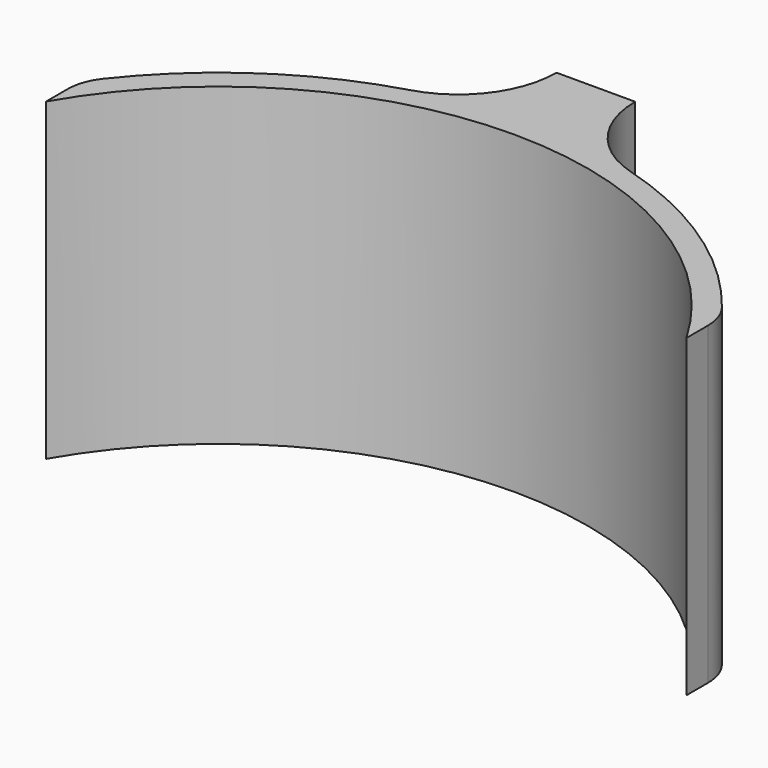
from build123d import *

# Parameters (mm, degrees)
F1_DEPTH = 40


with BuildPart() as f1:
    # F0 (on Top) → F1 (new body)
    with BuildSketch(Plane.XY):
        with BuildLine():
            ThreePointArc((-5, 49.749372), (0, 50), (5, 49.749372))
            Line((5, 49.749372), (5, 60))
            Line((5, 60), (-5, 60))
            Line((-5, 60), (-5, 49.749372))
        make_face()
        with BuildLine():
            ThreePointArc((-14, 48), (-9.540182, 49.081411), (-5, 49.749372))
            Line((-5, 49.749372), (-5, 60))
            ThreePointArc((-5, 60), (-7.5, 52.5), (-14, 48))
        make_face()
        with BuildLine():
            ThreePointArc((5, 49.749372), (9.540182, 49.081411), (14, 48))
            ThreePointArc((14, 48), (7.5, 52.5), (5, 60))
            Line((5, 60), (5, 49.749372))
        make_face()
        with BuildLine():
            ThreePointArc((40.703194, 26.929177), (40.355564, 29.001385), (39.350738, 30.846709))
            ThreePointArc((39.350738, 30.846709), (28.020245, 41.410939), (14, 48))
            ThreePointArc((14, 48), (9.540182, 49.081411), (5, 49.749372))
            Line((5, 49.749372), (-5, 49.749372))
            ThreePointArc((-5, 49.749372), (-9.540182, 49.081411), (-14, 48))
            ThreePointArc((-14, 48), (-28.020245, 41.410939), (-39.350738, 30.846709))
            ThreePointArc((-39.350738, 30.846709), (-40.355564, 29.001385), (-40.703194, 26.929177))
            Line((-40.703194, 26.929177), (-40.703194, 23.5))
            ThreePointArc((-40.703194, 23.5), (0, 47), (40.703194, 23.5))
            Line((40.703194, 23.5), (40.703194, 26.929177))
        make_face()
        with BuildLine():
            Line((-5, 49.749372), (5, 49.749372))
            ThreePointArc((5, 49.749372), (0, 50), (-5, 49.749372))
        make_face()
    extrude(amount=F1_DEPTH)


solid = f1.part
